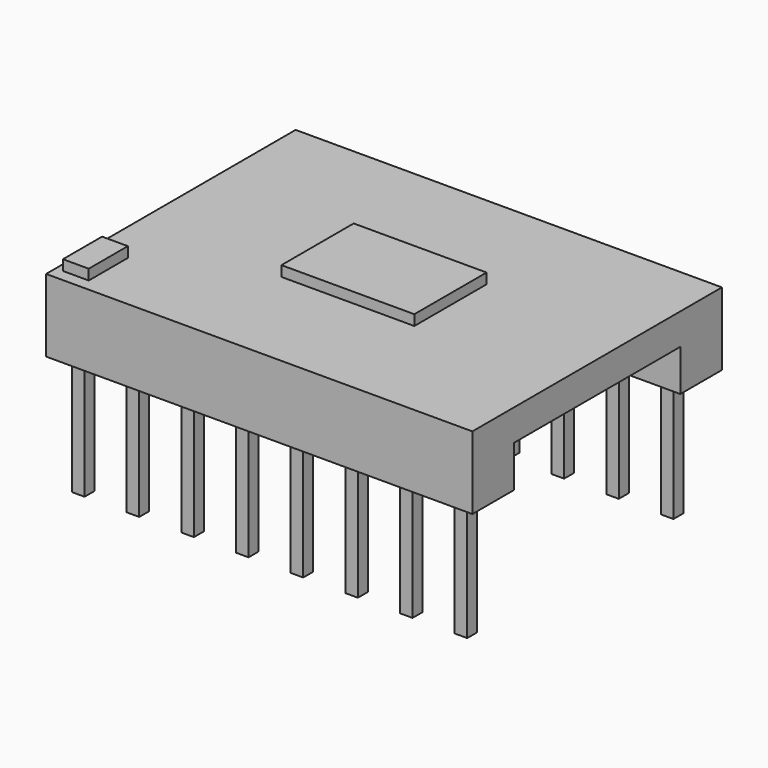
from build123d import *

# Parameters (mm, degrees)
SKETCH069_W                  = 20.5
SKETCH069_H                  = 15
PAD036_DEPTH                 = 1.5
SKETCH071_W                  = 0.6
SKETCH071_H                  = 0.6
PAD037_DEPTH                 = 8
SKETCH071_LINEARPATTERN_2_W  = 0.6
SKETCH071_LINEARPATTERN_2_H  = 0.6
PAD037_LINEARPATTERN_2_DEPTH = 8
SKETCH071_LINEARPATTERN_3_W  = 0.6
SKETCH071_LINEARPATTERN_3_H  = 0.6
PAD037_LINEARPATTERN_3_DEPTH = 8
SKETCH071_LINEARPATTERN_4_W  = 0.6
SKETCH071_LINEARPATTERN_4_H  = 0.6
PAD037_LINEARPATTERN_4_DEPTH = 8
SKETCH071_LINEARPATTERN_5_W  = 0.6
SKETCH071_LINEARPATTERN_5_H  = 0.6
PAD037_LINEARPATTERN_5_DEPTH = 8
SKETCH071_LINEARPATTERN_6_W  = 0.6
SKETCH071_LINEARPATTERN_6_H  = 0.6
PAD037_LINEARPATTERN_6_DEPTH = 8
SKETCH071_LINEARPATTERN_7_W  = 0.6
SKETCH071_LINEARPATTERN_7_H  = 0.6
PAD037_LINEARPATTERN_7_DEPTH = 8
SKETCH071_LINEARPATTERN_8_W  = 0.6
SKETCH071_LINEARPATTERN_8_H  = 0.6
PAD037_LINEARPATTERN_8_DEPTH = 8
SKETCH070_W                  = 20.5
SKETCH070_H                  = 2.5
PAD038_DEPTH                 = 2
SKETCH074_W                  = 1.239915
SKETCH074_H                  = 2.350915
SKETCH074_W_2                = 6.389756
SKETCH074_H_2                = 4.341472
PAD040_DEPTH                 = 0.5


with BuildPart() as part:
    # Sketch069 → Pad036 (new body)
    with BuildSketch(Plane.XY.offset(2)):
        Rectangle(SKETCH069_W, SKETCH069_H)
    extrude(amount=PAD036_DEPTH)

    # Sketch071 → Pad037 (join)
    with BuildSketch(Plane(origin=(-9.5, -6.2, 2), x_dir=(1, 0, 0), z_dir=(0, 0, 1))):
        Rectangle(SKETCH071_W, SKETCH071_H)
    pad037 = extrude(amount=-PAD037_DEPTH)

    # Sketch071 LinearPattern 2 → Pad037 LinearPattern 2 (add)
    with BuildSketch(Plane(origin=(-6.871429, -6.2, 2), x_dir=(1, 0, 0), z_dir=(0, 0, 1))):
        Rectangle(SKETCH071_LINEARPATTERN_2_W, SKETCH071_LINEARPATTERN_2_H)
    pad037_linearpattern_2 = extrude(amount=-PAD037_LINEARPATTERN_2_DEPTH)

    # Sketch071 LinearPattern 3 → Pad037 LinearPattern 3 (add)
    with BuildSketch(Plane(origin=(-4.242857, -6.2, 2), x_dir=(1, 0, 0), z_dir=(0, 0, 1))):
        Rectangle(SKETCH071_LINEARPATTERN_3_W, SKETCH071_LINEARPATTERN_3_H)
    pad037_linearpattern_3 = extrude(amount=-PAD037_LINEARPATTERN_3_DEPTH)

    # Sketch071 LinearPattern 4 → Pad037 LinearPattern 4 (add)
    with BuildSketch(Plane(origin=(-1.614286, -6.2, 2), x_dir=(1, 0, 0), z_dir=(0, 0, 1))):
        Rectangle(SKETCH071_LINEARPATTERN_4_W, SKETCH071_LINEARPATTERN_4_H)
    pad037_linearpattern_4 = extrude(amount=-PAD037_LINEARPATTERN_4_DEPTH)

    # Sketch071 LinearPattern 5 → Pad037 LinearPattern 5 (add)
    with BuildSketch(Plane(origin=(1.014286, -6.2, 2), x_dir=(1, 0, 0), z_dir=(0, 0, 1))):
        Rectangle(SKETCH071_LINEARPATTERN_5_W, SKETCH071_LINEARPATTERN_5_H)
    pad037_linearpattern_5 = extrude(amount=-PAD037_LINEARPATTERN_5_DEPTH)

    # Sketch071 LinearPattern 6 → Pad037 LinearPattern 6 (add)
    with BuildSketch(Plane(origin=(3.642857, -6.2, 2), x_dir=(1, 0, 0), z_dir=(0, 0, 1))):
        Rectangle(SKETCH071_LINEARPATTERN_6_W, SKETCH071_LINEARPATTERN_6_H)
    pad037_linearpattern_6 = extrude(amount=-PAD037_LINEARPATTERN_6_DEPTH)

    # Sketch071 LinearPattern 7 → Pad037 LinearPattern 7 (add)
    with BuildSketch(Plane(origin=(6.271429, -6.2, 2), x_dir=(1, 0, 0), z_dir=(0, 0, 1))):
        Rectangle(SKETCH071_LINEARPATTERN_7_W, SKETCH071_LINEARPATTERN_7_H)
    pad037_linearpattern_7 = extrude(amount=-PAD037_LINEARPATTERN_7_DEPTH)

    # Sketch071 LinearPattern 8 → Pad037 LinearPattern 8 (add)
    with BuildSketch(Plane(origin=(8.9, -6.2, 2), x_dir=(1, 0, 0), z_dir=(0, 0, 1))):
        Rectangle(SKETCH071_LINEARPATTERN_8_W, SKETCH071_LINEARPATTERN_8_H)
    pad037_linearpattern_8 = extrude(amount=-PAD037_LINEARPATTERN_8_DEPTH)

    # Mirrored: Pad037, Pad037 LinearPattern 2, Pad037 LinearPattern 3, Pad037 LinearPattern 4, Pad037 LinearPattern 5, Pad037 LinearPattern 6, Pad037 LinearPattern 7, Pad037 LinearPattern 8 across XZ
    add(pad037.mirror(Plane.XZ))
    add(pad037_linearpattern_2.mirror(Plane.XZ))
    add(pad037_linearpattern_3.mirror(Plane.XZ))
    add(pad037_linearpattern_4.mirror(Plane.XZ))
    add(pad037_linearpattern_5.mirror(Plane.XZ))
    add(pad037_linearpattern_6.mirror(Plane.XZ))
    add(pad037_linearpattern_7.mirror(Plane.XZ))
    add(pad037_linearpattern_8.mirror(Plane.XZ))

    # Sketch070 → Pad038 (join)
    with BuildSketch(Plane.XY.offset(2)):
        with Locations((0, 6.25)):
            Rectangle(SKETCH070_W, SKETCH070_H)
        with Locations((0, -6.25)):
            Rectangle(SKETCH070_W, SKETCH070_H)
    extrude(amount=-PAD038_DEPTH)

    # Sketch074 → Pad040 (join)
    with BuildSketch(Plane.XY.offset(3.5)):
        with Locations((-9.283549, -5.743839)):
            Rectangle(SKETCH074_W, SKETCH074_H)
        Rectangle(SKETCH074_W_2, SKETCH074_H_2)
    extrude(amount=PAD040_DEPTH)


solid = part.part
